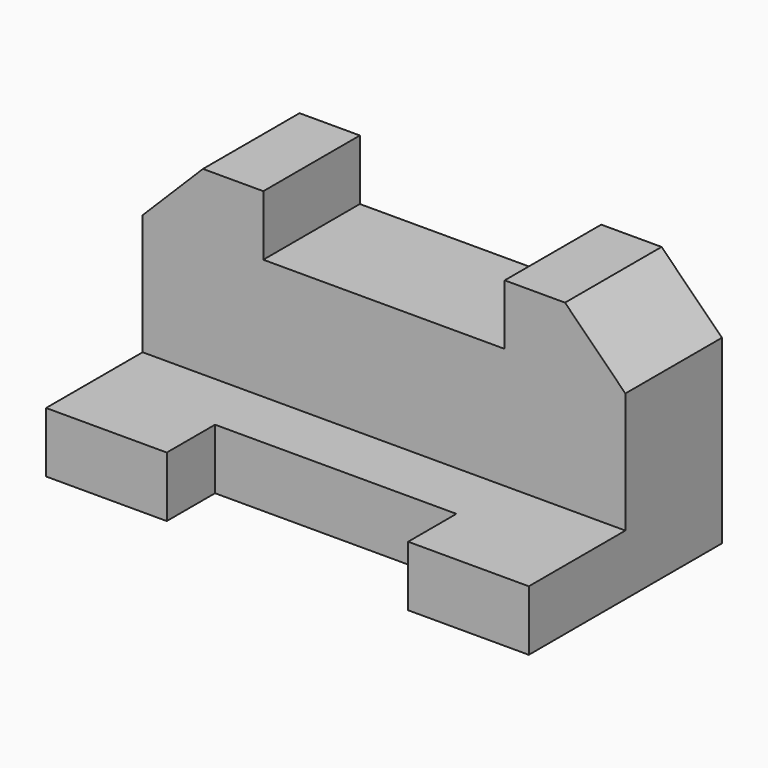
from build123d import *

# Parameters (mm, degrees)
F1_DEPTH = 25.4
F2_W     = 203.2
F2_H     = 50.8
F3_DEPTH = 50.8
F5_DEPTH = 50.8


with BuildPart() as f1:
    # F0 (on Top) → F1 (new body)
    with BuildSketch(Plane.XY):
        Polygon((-50.8, 0), (0, 0), (0, 101.6), (-203.2, 101.6), (-203.2, 0), (-152.4, 0), (-152.4, 25.4), (-50.8, 25.4), align=None)
    extrude(amount=F1_DEPTH)

    # F2 (on face) → F3 (join)
    with BuildSketch(Plane.XY.offset(25.4)):
        with Locations((-101.6, 76.2)):
            Rectangle(F2_W, F2_H)
    extrude(amount=F3_DEPTH)

    # F4 (on face) → F5 (join)
    with BuildSketch(Plane.XZ.offset(-50.8)):
        Polygon((-203.2, 76.2), (-152.4, 76.2), (-152.4, 101.6), (-177.8, 101.6), align=None)
        Polygon((-50.8, 76.2), (0, 76.2), (-25.4, 101.6), (-50.8, 101.6), align=None)
    extrude(amount=-F5_DEPTH)


solid = f1.part
